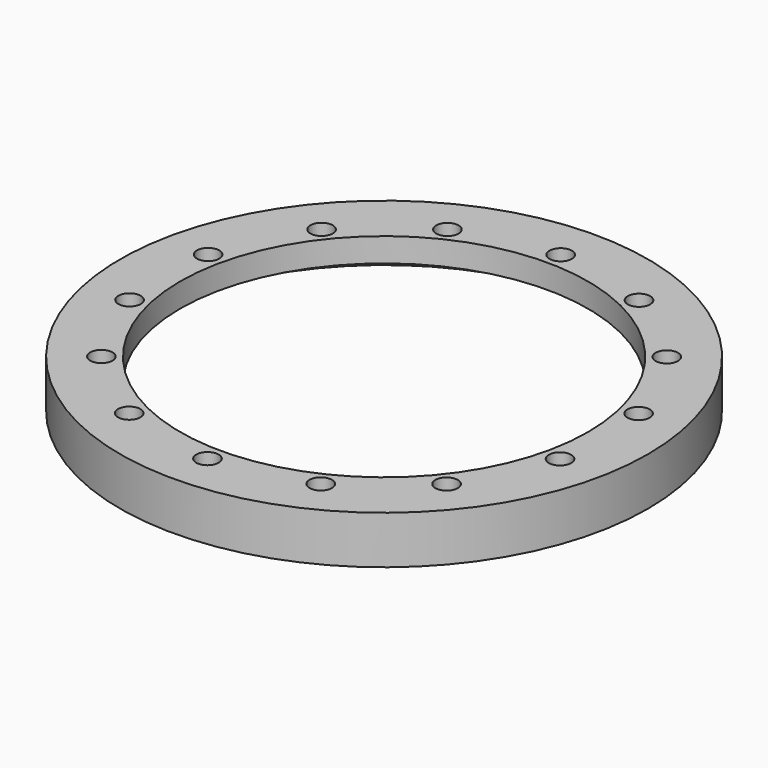
from build123d import *

# Parameters (mm, degrees)
SKETCH_R           = 33
PAD_DEPTH          = 6
SKETCH001_R        = 25.5
POCKET_DEPTH       = 6.001
SKETCH002_R        = 1.4
POCKET001_DEPTH    = 193.062487
POLARPATTERN_COUNT = 14
SKETCH004_R        = 30.9
POCKET002_DEPTH    = 3


with BuildPart() as part:
    # Sketch → Pad (new body)
    with BuildSketch(Plane.XY):
        Circle(SKETCH_R)
    extrude(amount=PAD_DEPTH)

    # Sketch001 → Pocket (cut, through all)
    with BuildSketch(Plane.XY.offset(6)):
        Circle(SKETCH001_R)
    extrude(amount=-POCKET_DEPTH, mode=Mode.SUBTRACT)

    # Sketch002 → Pocket001 (cut, through all)
    with BuildSketch(Plane.XY.offset(6)):
        with Locations((0, 27.6)):
            Circle(SKETCH002_R)
    pocket001 = extrude(amount=-POCKET001_DEPTH, mode=Mode.SUBTRACT)

    # PolarPattern: Pocket001 ×14 about axis
    polarpattern_axis = Axis((0, 0, 6), (0, 0, 1))
    for i in range(1, POLARPATTERN_COUNT):
        add(pocket001.rotate(polarpattern_axis, i * 360 / POLARPATTERN_COUNT), mode=Mode.SUBTRACT)

    # Sketch004 → Pocket002 (cut)
    with BuildSketch(Plane(origin=(0, 0, 0), x_dir=(1, 0, 0), z_dir=(0, 0, -1))):
        Circle(SKETCH004_R)
    extrude(amount=-POCKET002_DEPTH, mode=Mode.SUBTRACT)


solid = part.part
